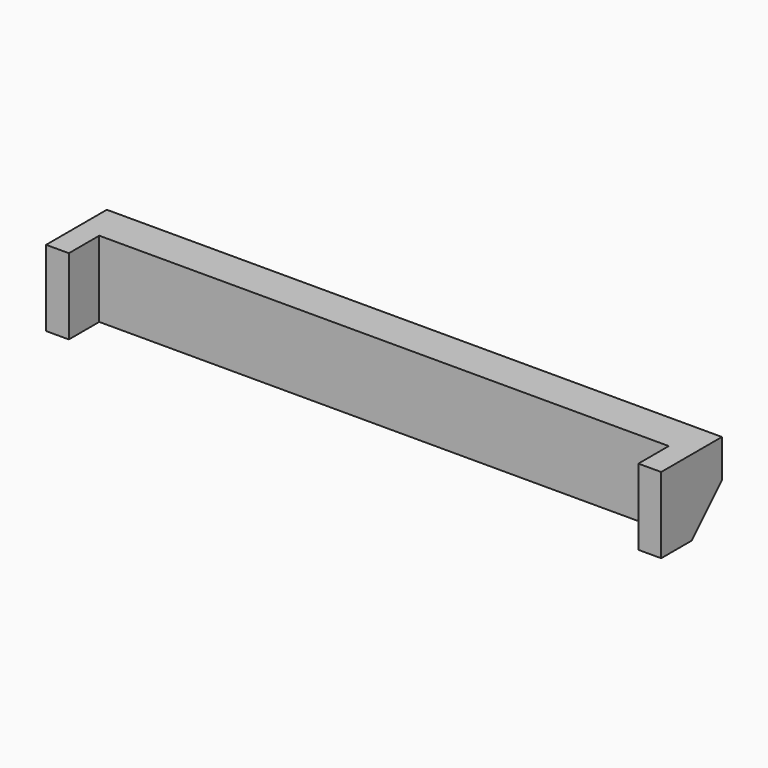
from build123d import *

# Parameters (mm, degrees)
F1_DEPTH = 254
F3_DEPTH = 2057.4


with BuildPart() as f1:
    # F0 (on Top) → F1 (new body)
    with BuildSketch(Plane.XY):
        Polygon((0, -127), (0, 0), (1905, 0), (1905, -127), (1981.2, -127), (1981.2, 127), (-76.2, 127), (-76.2, -127), align=None)
    extrude(amount=F1_DEPTH)

    # F2 (on face) → F3 (cut)
    with BuildSketch(Plane.YZ.offset(1981.2)):
        Polygon((127, 127), (0, 0), (127, 0), align=None)
    extrude(amount=-F3_DEPTH, mode=Mode.SUBTRACT)


solid = f1.part
